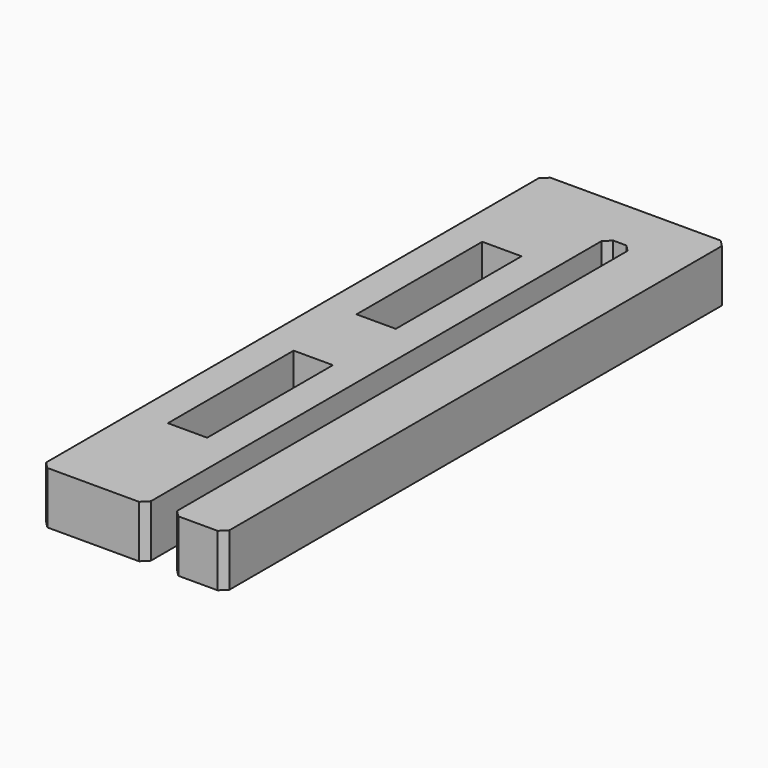
from build123d import *

# Parameters (mm, degrees)
F0_W     = 2.38125
F0_H     = 9.525
F1_DEPTH = 3.175
F2_SIZE  = 0.396875


with BuildPart() as f1:
    # F0 (on Top) → F1 (new body)
    with BuildSketch(Plane.XY):
        Polygon((3.175, 15.875), (3.175, 19.05), (-3.175, 19.05), (-3.175, -19.05), (3.175, -19.05), align=None)
        with Locations((0, -7.14375)):
            Rectangle(F0_W, F0_H, mode=Mode.SUBTRACT)
        with Locations((0, 7.14375)):
            Rectangle(F0_W, F0_H, mode=Mode.SUBTRACT)
        Polygon((7.9375, 19.05), (3.175, 19.05), (3.175, 15.875), (4.7625, 15.875), (4.7625, -19.05), (7.9375, -19.05), align=None)
    extrude(amount=F1_DEPTH)

    # F2
    f2_edges = [f1.edges().sort_by_distance(p)[0] for p in [
        (4.7625, 15.875, 1.5875),
        (3.175, 15.875, 1.5875),
        (7.9375, 19.05, 1.5875),
        (-3.175, 19.05, 1.5875),
        (7.9375, -19.05, 1.5875),
        (4.7625, -19.05, 1.5875),
        (3.175, -19.05, 1.5875),
        (-3.175, -19.05, 1.5875),
    ]]
    chamfer(f2_edges, length=F2_SIZE)


solid = f1.part
